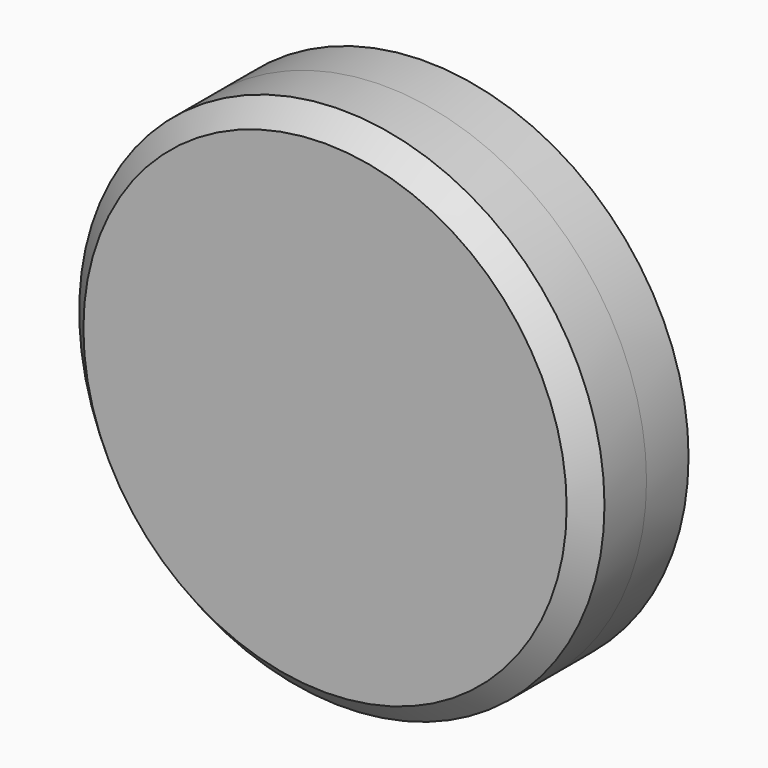
from build123d import *

# Parameters (mm, degrees)
F0_R     = 62.23
F5_DEPTH = 25.4
F1_T     = -2.54
F0_R_2   = 63.5
F6_DEPTH = 12.7
F2_DEPTH = 12.7
F7_R     = 63.5
F3_DEPTH = 5.08
F4_SIZE  = 5.08


with BuildPart() as f5:
    # F0 (on Front) → F5 (new body)
    with BuildSketch(Plane.XZ):
        Circle(F0_R)
    extrude(amount=F5_DEPTH)

    # F1
    f1_openings = [f5.faces().sort_by_distance(p)[0] for p in [
        (0, -25.4, 0),
    ]]
    offset(amount=F1_T, openings=f1_openings)

    # F0 (on Front) → F6 (join)
    with BuildSketch(Plane.XZ):
        Circle(F0_R_2)
        Circle(F0_R, mode=Mode.SUBTRACT)
    extrude(amount=F6_DEPTH)


with BuildPart() as f2:
    # F2 (new): a face of the model
    f2_faces = [f5.part.faces().sort_by_distance(p)[0] for p in [
        (-63.3203948776, -12.7, 0),
    ]]
    extrude(f2_faces, amount=F2_DEPTH)

    # F7 (on face) → F3 (join)
    with BuildSketch(Plane.XZ.offset(25.4)):
        Circle(F7_R)
    extrude(amount=F3_DEPTH)

    # F4
    f4_edges = [f2.edges().sort_by_distance(p)[0] for p in [
        (-63.5, -30.48, 0),
    ]]
    chamfer(f4_edges, length=F4_SIZE)


solid = Compound([f5.part, f2.part])
